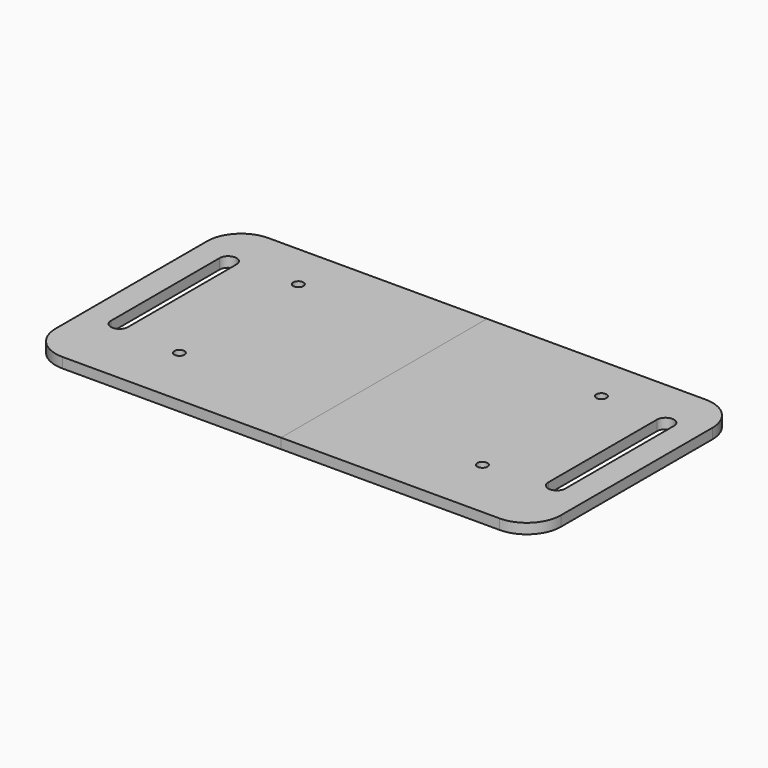
from build123d import *

# Parameters (mm, degrees)
F0_W     = 74.370556
F0_H     = 75.7838
F1_DEPTH = 3
F3_D     = 3
F6_DEPTH = 77.581309
F7_R     = 10


with BuildPart() as f1:
    # F0 (on Top) → F1 (new body)
    with BuildSketch(Plane.XY):
        with Locations((37.185278, 37.8919)):
            Rectangle(F0_W, F0_H)
    extrude(amount=F1_DEPTH)

    # F3 (through all)
    with Locations(Plane.XY.offset(3)):
        with Locations((44.607192, 62.124677), (44.607192, 18.351912)):
            Hole(F3_D / 2)

    # F5 (on face) → F6 (cut)
    with BuildSketch(Plane.XY.offset(3)):
        with BuildLine():
            ThreePointArc((61.870556, 21), (64.370556, 18.5), (66.870556, 21))
            Line((66.870556, 21), (66.870556, 61))
            ThreePointArc((66.870556, 61), (64.370556, 63.5), (61.870556, 61))
            Line((61.870556, 61), (61.870556, 21))
        make_face()
    extrude(amount=-F6_DEPTH, mode=Mode.SUBTRACT)

    # F7
    f7_edges = [f1.edges().sort_by_distance(p)[0] for p in [
        (74.370556, 0, 1.5),
        (74.370556, 75.7838, 1.5),
    ]]
    fillet(f7_edges, radius=F7_R)


with BuildPart() as f8_1:
    # F8: instance of F1
    add(f1.part.mirror(Plane.YZ))


solid = Compound([f1.part, f8_1.part])
